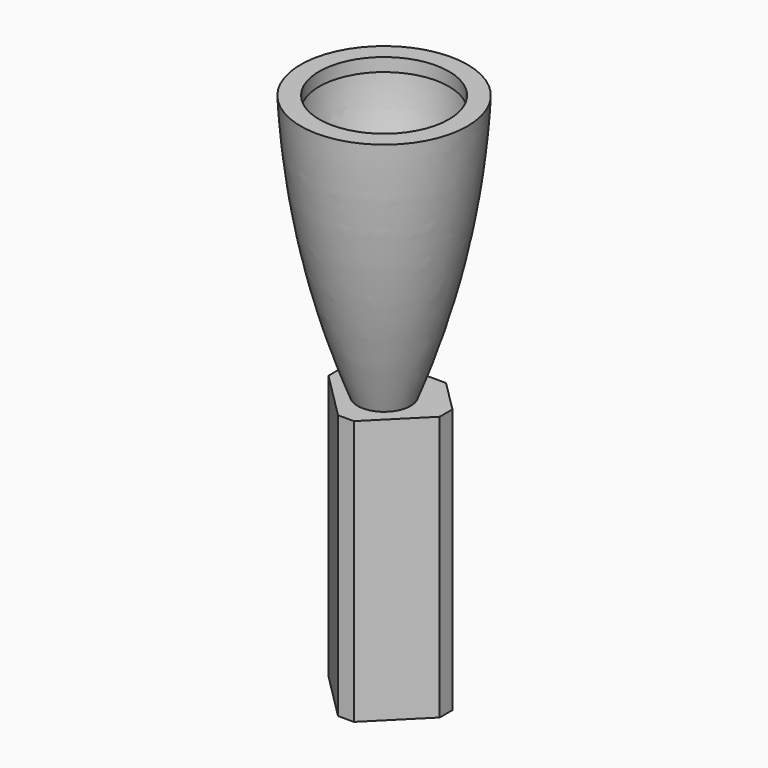
from build123d import *

# Parameters (mm, degrees)
PAD_DEPTH   = 100
SKETCH002_R = 45
HOLE_DEPTH  = 12


with BuildPart() as part:
    # Sketch → Revolution (revolve)
    with BuildSketch(Plane.XZ):
        with BuildLine():
            ThreePointArc((10, 0), (24.813455, 49.126357), (31.5, 100))
            Line((31.5, 100), (24.5, 100))
            Line((24.5, 100), (24.5, 95))
            Line((24.5, 95), (26.5, 95))
            ThreePointArc((0, 26), (18.469352, 58.495466), (26.5, 95))
            Line((0, 26), (0, 0))
            Line((0, 0), (10, 0))
        make_face()
    revolve(axis=Axis((0, 0, 0), (0, 0, 1)))

    # Sketch001 (on Face1 of Revolution) → Pad (new body)
    with BuildSketch(Plane(origin=(0, 0, 0), x_dir=(1, 0, 0), z_dir=(0, 0, -1))):
        Polygon((-3, 18), (-21, 0), (-21, -6), (-9, -18), (9, -18), (21, -6), (21, 0), (3, 18), align=None)
    extrude(amount=PAD_DEPTH)

    # Sketch002 (on Face9 of Pad) → Hole (cut)
    with BuildSketch(Plane(origin=(0, 18, 0), x_dir=(1, 0, 0), z_dir=(0, 1, 0))):
        with Locations((0, 50)):
            Circle(SKETCH002_R)
    extrude(amount=-HOLE_DEPTH, mode=Mode.SUBTRACT)


with BuildPart() as part_1:
    # Body placement: moved
    add(part.part.moved(Location((0, 0, -26))))


solid = part_1.part
